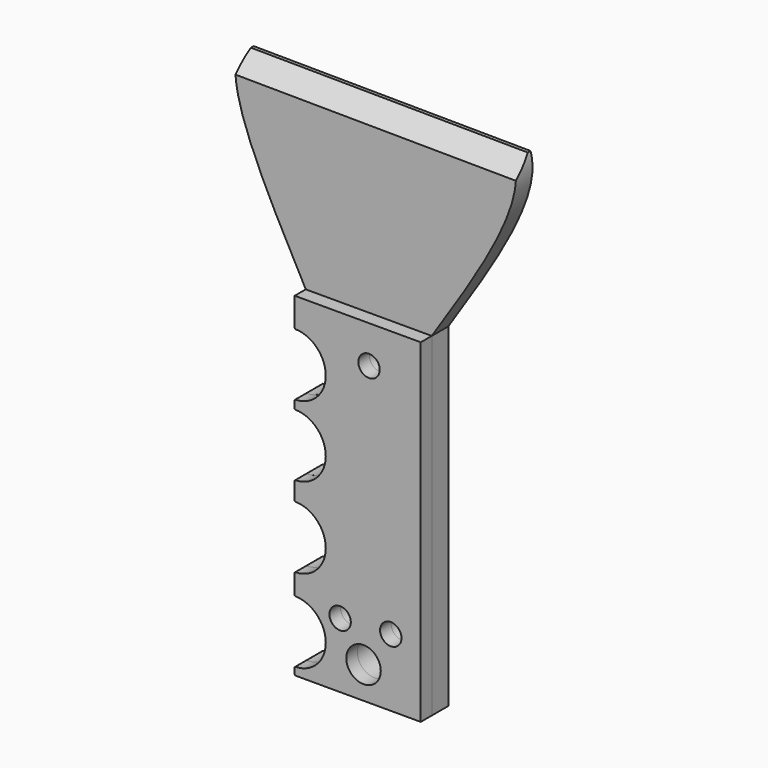
from build123d import *

# Parameters (mm, degrees)
F1_W     = 36.5355033427
F1_H     = 96.8843176961
F2_DEPTH = 6
F4_DEPTH = 4
F3_R     = 9
F5_DEPTH = 25
F6_R     = 3.1
F6_R_2   = 5
F7_DEPTH = 35.6
F8_SIZE  = 5
F9_R     = 0.2414213562
F9_2_R   = 0.2414213562


with BuildPart() as f2:
    # F1 (on face) → F2 (new body)
    with BuildSketch(Plane.XZ):
        with BuildLine():
            add(Edge.make_bspline(
                [(-12.7239916474, 65.5617713928), (-24.1989352738, 86.9689300154), (-35.6738789003, 108.376088638), (-32.6227918267, 118.7339797616)],
                knots=[0, 0, 0, 0, 0.6431047919, 0.6431047919, 0.6431047919, 0.6431047919], degree=3))
            Line((-12.7239916474, 65.5617713928), (23.8115116954, 65.5617713928))
            add(Edge.make_bspline(
                [(23.8115116954, 65.5617713928), (37.5330867792, 86.3799975236), (51.254661863, 107.1982236544), (47.6248264313, 118.0815622211)],
                knots=[0, 0, 0, 0, 0.5930470387, 0.5930470387, 0.5930470387, 0.5930470387], degree=3))
            Line((47.6248264313, 118.0815622211), (-32.6227918267, 118.7339797616))
        make_face()
        with Locations((5.543760024, 17.1196125448)):
            Rectangle(F1_W, F1_H)
    extrude(amount=F2_DEPTH)

    # F3 (on face) → F5 (cut)
    with BuildSketch(Plane.XZ.offset(6)):
        with Locations((-12.7239916474, 48.1027774513)):
            Circle(F3_R)
        with Locations((-12.7239916474, 27.5501671713)):
            Circle(F3_R)
        with Locations((-12.7239916474, 4.060971085)):
            Circle(F3_R)
        with Locations((-12.7239916474, -20.0802776963)):
            Circle(F3_R)
    extrude(amount=-F5_DEPTH, mode=Mode.SUBTRACT)


with BuildPart() as f4:
    # F3 (on face) → F4 (new body)
    with BuildSketch(Plane.XZ.offset(6)):
        with BuildLine():
            Line((23.8115116954, 65.5617713928), (-12.7239916474, 65.5617713928))
            Line((-12.7239916474, 65.5617713928), (-12.7239916474, 57.1027774513))
            ThreePointArc((-12.7239916474, 57.1027774513), (-6.3600306167, 54.466738482), (-3.7239916474, 48.1027774513))
            ThreePointArc((-3.7239916474, 48.1027774513), (-6.3600306167, 41.7388164206), (-12.7239916474, 39.1027774513))
            Line((-12.7239916474, 39.1027774513), (-12.7239916474, 36.5501671713))
            ThreePointArc((-12.7239916474, 36.5501671713), (-6.3600306167, 33.914128202), (-3.7239916474, 27.5501671713))
            ThreePointArc((-3.7239916474, 27.5501671713), (-6.3600306167, 21.1862061406), (-12.7239916474, 18.5501671713))
            Line((-12.7239916474, 18.5501671713), (-12.7239916474, 13.060971085))
            ThreePointArc((-12.7239916474, 13.060971085), (-6.3600306167, 10.4249321157), (-3.7239916474, 4.060971085))
            ThreePointArc((-3.7239916474, 4.060971085), (-6.3600306167, -2.3029899457), (-12.7239916474, -4.939028915))
            Line((-12.7239916474, -4.939028915), (-12.7239916474, -11.0802776963))
            ThreePointArc((-12.7239916474, -11.0802776963), (-6.3600306167, -13.7163166656), (-3.7239916474, -20.0802776963))
            ThreePointArc((-3.7239916474, -20.0802776963), (-6.3600306167, -26.4442387269), (-12.7239916474, -29.0802776963))
            Line((-12.7239916474, -29.0802776963), (-12.7239916474, -31.3225463033))
            Line((-12.7239916474, -31.3225463033), (23.8115116954, -31.3225463033))
            Line((23.8115116954, -31.3225463033), (23.8115116954, 65.5617713928))
        make_face()
    extrude(amount=F4_DEPTH)


with BuildPart() as f7_tool:
    # F6 (on face) → F7 (new body)
    with BuildSketch(Plane.XZ.offset(10)):
        with Locations((0.442061777, -12.4788656831)):
            Circle(F6_R)
        with Locations((15.1257580146, -11.757383123)):
            Circle(F6_R)
        with Locations((8.8166017085, 54.6519830823)):
            Circle(F6_R)
        with Locations((7.2275600396, -22.087328136)):
            Circle(F6_R_2)
    extrude(amount=-F7_DEPTH)


with BuildPart() as f2_1:
    add(f2.part)

    # F7: cut by f7_tool
    add(f7_tool.part, mode=Mode.SUBTRACT)

    # F8
    f8_edges = [f2_1.edges().sort_by_distance(p)[0] for p in [
        (7.501017, -6, 118.407771),
    ]]
    chamfer(f8_edges, length=F8_SIZE)

    # F9
    f9_edges = [f2_1.edges().sort_by_distance(p)[0] for p in [
        (-12.723992, -3, 57.102777),
        (-12.723992, -3, 39.102777),
        (-12.723992, -3, 36.550167),
        (-12.723992, -3, 18.550167),
        (-12.723992, -3, 13.060971),
        (-12.723992, -3, -4.939029),
        (-12.723992, -3, -11.080278),
        (-12.723992, -3, -29.080278),
        (-12.723992, -3, -31.322546),
    ]]
    fillet(f9_edges, radius=F9_R)


with BuildPart() as f4_1:
    add(f4.part)

    # F7: cut by f7_tool
    add(f7_tool.part, mode=Mode.SUBTRACT)

    # F9#2
    f9_2_edges = [f4_1.edges().sort_by_distance(p)[0] for p in [
        (-12.723992, -8, 39.102777),
        (-12.723992, -8, 18.550167),
        (-12.723992, -8, 57.102777),
        (-12.723992, -8, 36.550167),
        (-12.723992, -8, 13.060971),
        (-12.723992, -8, -4.939029),
        (-12.723992, -8, -29.080278),
        (-12.723992, -8, -31.322546),
        (-12.723992, -8, -11.080278),
    ]]
    fillet(f9_2_edges, radius=F9_2_R)


solid = Compound([f2_1.part, f4_1.part])
